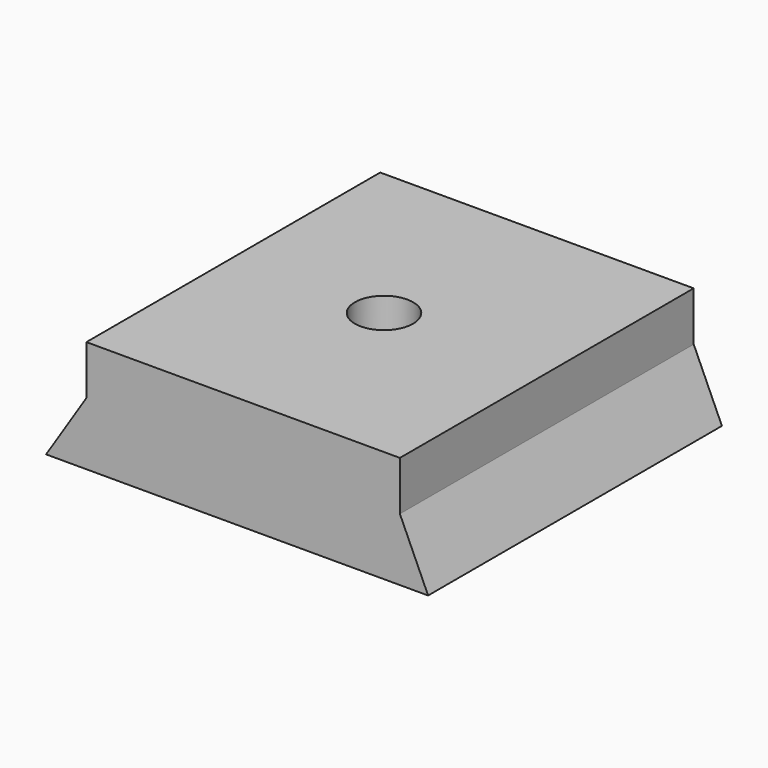
from build123d import *

# Parameters (mm, degrees)
F1_DEPTH       = 20.5
F3_D           = 6.5
F3_CBORE_D     = 12
F3_CBORE_DEPTH = 4.5
F4_DEPTH       = 5.5


with BuildPart() as f1:
    # F0 (on Front) → F1 (new body, symmetric)
    with BuildSketch(Plane.XZ):
        Polygon((-16.825, 7), (-21.325, 0), (21.325, 0), (18.175, 7), align=None)
    extrude(amount=F1_DEPTH, both=True)

    # F3 (through all)
    with Locations(Plane(origin=(0, 0, 0), x_dir=(1, 0, 0), z_dir=(0, 0, -1))):
        with Locations((0, 0)):
            CounterBoreHole(F3_D / 2, F3_CBORE_D / 2, F3_CBORE_DEPTH)

    # F4 (add): a face of the model
    f4_faces = [f1.faces().sort_by_distance(p)[0] for p in [
        (0.675, 19.9609267211, 7),
    ]]
    extrude(f4_faces, amount=F4_DEPTH)


solid = f1.part
